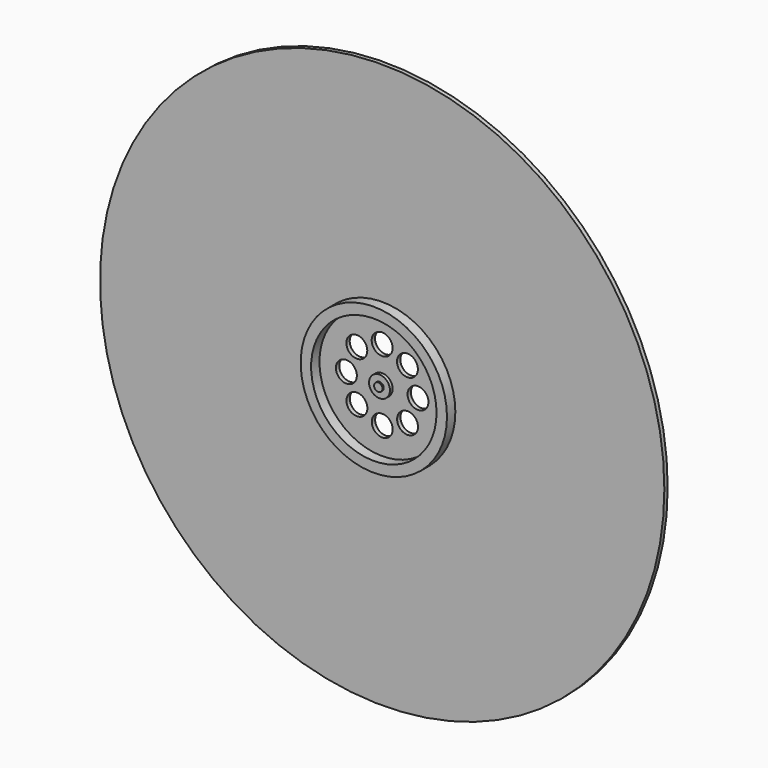
from build123d import *

# Parameters (mm, degrees)
F0_R      = 17.145
F1_DEPTH  = 0.254
F2_R      = 4.445
F2_R_2    = 3.81
F3_DEPTH  = 0.635
F4_R      = 0.635
F5_DEPTH  = 0.2032
F6_R      = 0.254
F7_DEPTH  = 0.09398
F8_R      = 0.635
F9_DEPTH  = 1.8796
F10_R     = 0.2032
F11_DEPTH = 0.5588


with BuildPart() as f1:
    # F0 (on Front) → F1 (new body)
    with BuildSketch(Plane.XZ):
        with Locations((-30.861, 27.305001)):
            Circle(F0_R)
    extrude(amount=-F1_DEPTH)

    # F2 (on Front) → F3 (join)
    with BuildSketch(Plane.XZ):
        with Locations((-30.861057, 27.305188)):
            Circle(F2_R)
        with Locations((-30.861057, 27.305188)):
            Circle(F2_R_2, mode=Mode.SUBTRACT)
    extrude(amount=F3_DEPTH)

    # F4 (on face) → F5 (join)
    with BuildSketch(Plane.XZ):
        with Locations((-30.861109, 27.30538)):
            Circle(F4_R)
    extrude(amount=F5_DEPTH)

    # F6 (on face) → F7 (join)
    with BuildSketch(Plane.XZ.offset(0.2032)):
        with Locations((-30.861109, 27.30538)):
            Circle(F6_R)
    extrude(amount=F7_DEPTH)

    # F8 (on face) → F9 (cut)
    with BuildSketch(Plane.XZ.offset(0.635)):
        with Locations((-30.864747, 29.480701)):
            Circle(F8_R)
        with Locations((-29.325346, 28.846117)):
            Circle(F8_R)
        with Locations((-28.685544, 27.308878)):
            Circle(F8_R)
        with Locations((-29.320128, 25.769476)):
            Circle(F8_R)
        with Locations((-30.857367, 25.129674)):
            Circle(F8_R)
        with Locations((-33.036571, 27.301498)):
            Circle(F8_R)
        with Locations((-32.401987, 28.840899)):
            Circle(F8_R)
        with Locations((-32.396769, 25.764258)):
            Circle(F8_R)
    extrude(amount=-F9_DEPTH, mode=Mode.SUBTRACT)

    # F10 (on face) → F11 (join)
    with BuildSketch(Plane(origin=(0, 0.254, 0), x_dir=(-1, 0, 0), z_dir=(0, 1, 0))):
        with Locations((30.861, 27.305001)):
            Circle(F10_R)
    extrude(amount=F11_DEPTH)


solid = f1.part
